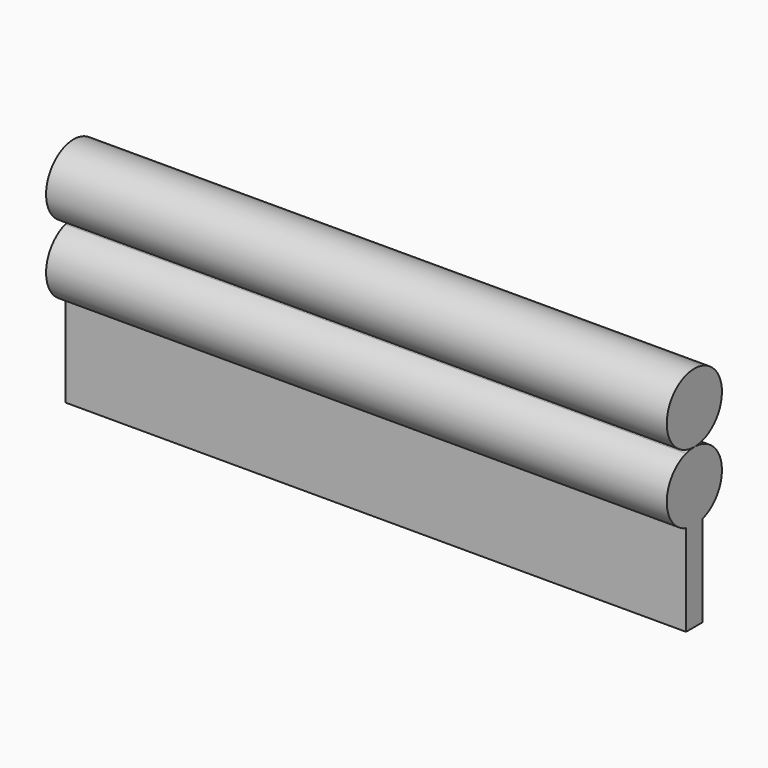
from build123d import *

# Parameters (mm, degrees)
F1_DEPTH = 2286


with BuildPart() as f1:
    # F0 (on Right) → F1 (new body)
    with BuildSketch(Plane.YZ):
        with BuildLine():
            Line((38.1, 0), (38.1, 336.04972142))
            ThreePointArc((38.1, 336.04972142), (0, 330.2), (-38.1, 336.04972142))
            Line((-38.1, 336.04972142), (-38.1, 0))
            Line((-38.1, 0), (0, 0))
            Line((0, 0), (38.1, 0))
        make_face()
        with BuildLine():
            ThreePointArc((-38.1, 578.35027858), (-127, 457.2), (-38.1, 336.04972142))
            Line((-38.1, 336.04972142), (-38.1, 578.35027858))
        make_face()
        with BuildLine():
            Line((38.1, 336.04972142), (38.1, 578.35027858))
            ThreePointArc((38.1, 578.35027858), (19.2732278089, 582.7290511787), (0, 584.2))
            ThreePointArc((0, 584.2), (-19.2732278089, 582.7290511787), (-38.1, 578.35027858))
            Line((-38.1, 578.35027858), (-38.1, 336.04972142))
            ThreePointArc((-38.1, 336.04972142), (0, 330.2), (38.1, 336.04972142))
        make_face()
        with BuildLine():
            ThreePointArc((38.1, 336.04972142), (102.3906734034, 382.0657867546), (127, 457.2))
            ThreePointArc((127, 457.2), (102.3906734034, 532.3342132454), (38.1, 578.35027858))
            Line((38.1, 578.35027858), (38.1, 336.04972142))
        make_face()
    extrude(amount=F1_DEPTH)


with BuildPart() as f1b:
    # F0 (on Right) → F1, piece 2 (new body)
    with BuildSketch(Plane.YZ):
        with BuildLine():
            Line((38.1, 711.2), (38.1, 590.04972142))
            ThreePointArc((38.1, 590.04972142), (102.3906734034, 636.0657867546), (127, 711.2))
            ThreePointArc((127, 711.2), (-75.1342132454, 813.5906734034), (-38.1, 590.04972142))
            Line((-38.1, 590.04972142), (-38.1, 711.2))
            Line((-38.1, 711.2), (0, 711.2))
            Line((0, 711.2), (38.1, 711.2))
        make_face()
        with BuildLine():
            ThreePointArc((-38.1, 590.04972142), (-19.2732278089, 585.6709488213), (0, 584.2))
            ThreePointArc((0, 584.2), (19.2732278089, 585.6709488213), (38.1, 590.04972142))
            Line((38.1, 590.04972142), (38.1, 711.2))
            Line((38.1, 711.2), (0, 711.2))
            Line((0, 711.2), (-38.1, 711.2))
            Line((-38.1, 711.2), (-38.1, 590.04972142))
        make_face()
    extrude(amount=F1_DEPTH)


solid = Compound([f1.part, f1b.part])
